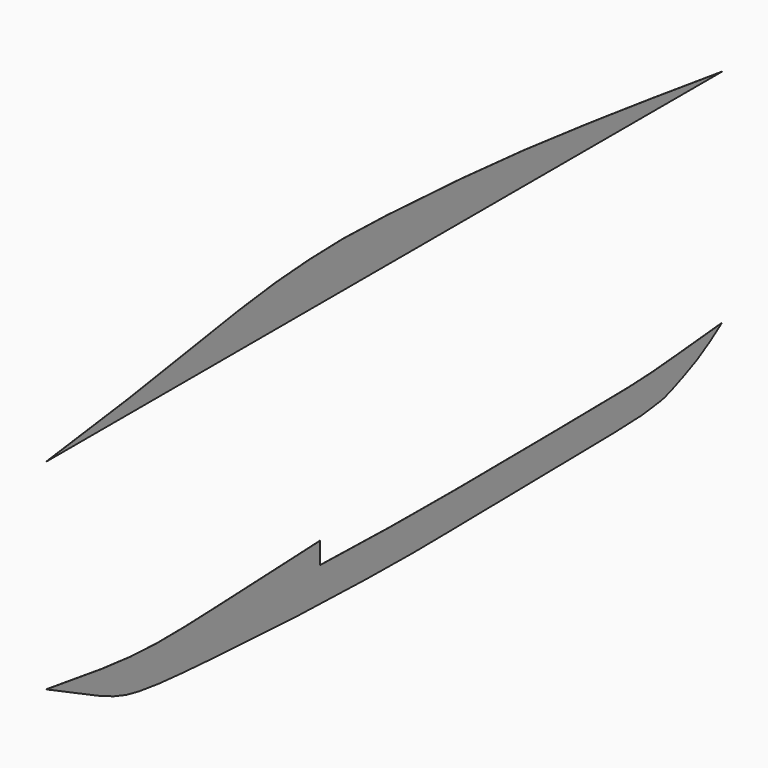
from build123d import *

# Parameters (mm, degrees)
F2_DEPTH = 0.5


with BuildPart() as f2:
    # F1 (on offset) → F2 (new body, symmetric)
    with BuildSketch(Plane.YZ.offset(150)):
        with BuildLine():
            add(Edge.make_bspline(
                [(-2618.2102647118, -576.3037851779), (-2539.0333905021, -590.5693602499), (-2375.154011412, -620.0960826442), (-2096.7040136344, -670.0811240284), (-1773.0350855243, -710.4396632339), (-1504.9471650603, -727.0489500896), (-1286.513021344, -736.293041033), (-1274.7112617183, -736.7843373728)],
                knots=[0, 0, 0, 0, 0.0701169764, 0.1451273073, 0.2240791994, 0.3224669769, 0.3279987799, 0.3279987799, 0.3279987799, 0.3279987799], degree=3))
            Line((-1274.7112617184, -736.7843373728), (-1274.7112617184, -662.7631248578))
            add(Edge.make_bspline(
                [(-2618.2102647118, -576.3037851779), (-2374.7002828416, -614.2741342573), (-1917.2879605014, -685.5956944009), (-1551.0225985173, -673.7788376752), (-1310.41197081, -664.2083344144), (-1274.7112617184, -662.7631248578)],
                knots=[0, 0, 0, 0, 0.3315668647, 0.6228194025, 0.6719076149, 0.6719076149, 0.6719076149, 0.6719076149], degree=3))
        make_face()
        with BuildLine():
            add(Edge.make_bspline(
                [(-669.7112617185, -757.6052229188), (-602.0714093195, -759.6035889936), (-534.9526120868, -761.5040851665), (-469.8083181867, -763.2811623211)],
                knots=[0.4110522857, 0.4110522857, 0.4110522857, 0.4110522857, 0.4376310669, 0.4376310669, 0.4376310669, 0.4376310669], degree=3))
            Line((-469.8083181867, -763.281162321), (-469.8083181867, -628.0062858085))
            add(Edge.make_bspline(
                [(-669.7112617184, -636.8509449902), (-603.4673012103, -633.9274703809), (-536.6378166673, -630.9664971881), (-469.8083181867, -628.0062858085)],
                knots=[0.9225616639, 0.9225616639, 0.9225616639, 0.9225616639, 1, 1, 1, 1], degree=3))
            Line((-669.7112617184, -636.8509449902), (-669.7112617184, -757.6052229188))
        make_face()
        with BuildLine():
            add(Edge.make_bspline(
                [(1385.2887382816, -772.0995976401), (1632.162088344, -770.4906352796), (2047.3542309509, -768.0664997186), (2363.6699111594, -735.5275467967), (2579.3131378684, -715.9783442912), (2685.7897352882, -706.3256758723)],
                knots=[0.7310429993, 0.7310429993, 0.7310429993, 0.7310429993, 0.8392479794, 0.9206266367, 1, 1, 1, 1], degree=3))
            Line((1385.2887382816, -772.0995976401), (1385.2887382816, -924.43752621))
            Line((1385.2887382816, -924.43752621), (1606.0147852981, -919.6427484052))
            Line((1606.0147852981, -919.6427484052), (2063.3390255537, -909.2374018513))
            Line((2063.3390255537, -909.2374018513), (2385.2887382816, -879.2924956671))
            add(Edge.make_bspline(
                [(2385.2887382816, -879.2924956671), (2421.9290941285, -864.0432321069), (2534.0158071069, -814.3437931642), (2626.4106873664, -748.585983947), (2685.7897352882, -706.3256758723)],
                knots=[0.9203688542, 0.9203688542, 0.9203688542, 0.9203688542, 0.9488237702, 1, 1, 1, 1], degree=3))
        make_face()
        with BuildLine():
            Line((-1274.7112617184, -938.6454548407), (-1274.7112617184, -880.009493909))
            Line((-1274.7112617184, -880.009493909), (-1437.7513832902, -867.8795826768))
            Line((-1437.7513832902, -867.8795826768), (-1847.0462813249, -827.756598687))
            Line((-1847.0462813249, -827.756598687), (-2213.4968429981, -775.8774304832))
            add(Edge.make_bspline(
                [(-2213.4968429981, -775.8774304832), (-2178.1828741936, -792.5093882206), (-2116.1479783538, -820.1222288889), (-2018.4522131173, -857.0758458758), (-1898.8982328104, -883.9924256255), (-1734.0059514115, -905.8160057723), (-1550.3892671083, -920.6455663407), (-1351.9697174508, -933.7750206565), (-1274.7112617184, -938.6454548407)],
                knots=[0.106161225, 0.106161225, 0.106161225, 0.106161225, 0.1392434105, 0.174518325, 0.212295922, 0.2554875511, 0.3106744158, 0.3428881723, 0.3428881723, 0.3428881723, 0.3428881723], degree=3))
        make_face()
        with BuildLine():
            Line((1606.0147852981, -919.6427484052), (1385.2887382816, -924.43752621))
            Line((1385.2887382816, -924.43752621), (1385.2887382816, -976.6713911922))
            add(Edge.make_bspline(
                [(1385.2887382816, -976.6713911922), (1557.8524568737, -974.3902477766), (1874.8816200544, -970.1108659298), (2023.0516705268, -965.2174725682), (2132.8649293631, -954.1700096304), (2234.8657137087, -940.0665287928), (2295.6269129834, -915.1532376729), (2358.8355305535, -890.3019940013), (2385.2887382816, -879.2924956671)],
                knots=[0.6984519453, 0.6984519453, 0.6984519453, 0.6984519453, 0.7496741382, 0.7992883896, 0.8337188547, 0.8677428923, 0.8998252818, 0.9203688542, 0.9203688542, 0.9203688542, 0.9203688542], degree=3))
            Line((2385.2887382816, -879.2924956671), (2063.3390255537, -909.2374018513))
            Line((2063.3390255537, -909.2374018513), (1606.0147852981, -919.6427484052))
        make_face()
        with BuildLine():
            Line((-1274.7112617184, -880.009493909), (-1274.7112617184, -736.7843373728))
            add(Edge.make_bspline(
                [(-2618.2102647118, -576.3037851779), (-2539.0333905021, -590.5693602499), (-2375.154011412, -620.0960826442), (-2096.7040136344, -670.0811240284), (-1773.0350855243, -710.4396632339), (-1504.9471650603, -727.0489500896), (-1286.513021344, -736.293041033), (-1274.7112617183, -736.7843373728)],
                knots=[0, 0, 0, 0, 0.0701169764, 0.1451273073, 0.2240791994, 0.3224669769, 0.3279987799, 0.3279987799, 0.3279987799, 0.3279987799], degree=3))
            add(Edge.make_bspline(
                [(-2618.2102647118, -576.3037851779), (-2555.0916094041, -607.4863736106), (-2428.5667711769, -669.9935980991), (-2279.6156710071, -744.5400580991), (-2218.8240651697, -773.368447862), (-2213.4968429981, -775.8774304832)],
                knots=[0, 0, 0, 0, 0.050470382, 0.1011706743, 0.106161225, 0.106161225, 0.106161225, 0.106161225], degree=3))
            Line((-2213.4968429981, -775.8774304832), (-1847.0462813249, -827.756598687))
            Line((-1847.0462813249, -827.756598687), (-1437.7513832902, -867.8795826768))
            Line((-1437.7513832902, -867.8795826768), (-1274.7112617184, -880.009493909))
        make_face()
        with BuildLine():
            add(Edge.make_bspline(
                [(-1274.7112617183, -736.7843373728), (-1101.7111468682, -743.9861721753), (-891.285948131, -751.0201450743), (-684.7112617185, -757.1607021541)],
                knots=[0.3279987799, 0.3279987799, 0.3279987799, 0.3279987799, 0.4090885986, 0.4090885986, 0.4090885986, 0.4090885986], degree=3))
            Line((-684.7112617184, -757.1607021541), (-684.7112617184, -637.5127192401))
            add(Edge.make_bspline(
                [(-1274.7112617184, -662.7631248578), (-1096.670228969, -655.5558001701), (-893.8375195181, -646.7360757099), (-684.7112617184, -637.5127192401)],
                knots=[0.6719076149, 0.6719076149, 0.6719076149, 0.6719076149, 0.9167127252, 0.9167127252, 0.9167127252, 0.9167127252], degree=3))
            Line((-1274.7112617184, -662.7631248578), (-1274.7112617184, -736.7843373728))
        make_face()
        with BuildLine():
            add(Edge.make_bspline(
                [(-684.7112617185, -757.1607021541), (-679.7088083003, -757.3094030975), (-674.7086129159, -757.4575801203), (-669.7112617185, -757.6052229188)],
                knots=[0.4090885986, 0.4090885986, 0.4090885986, 0.4090885986, 0.4110522857, 0.4110522857, 0.4110522857, 0.4110522857], degree=3))
            Line((-669.7112617184, -757.6052229188), (-669.7112617184, -636.8509449902))
            add(Edge.make_bspline(
                [(-684.7112617184, -637.5127192401), (-679.7147702212, -637.2923527368), (-674.714686125, -637.0717558249), (-669.7112617184, -636.8509449902)],
                knots=[0.9167127252, 0.9167127252, 0.9167127252, 0.9167127252, 0.9225616639, 0.9225616639, 0.9225616639, 0.9225616639], degree=3))
            Line((-684.7112617184, -637.5127192401), (-684.7112617184, -757.1607021541))
        make_face()
        with BuildLine():
            add(Edge.make_bspline(
                [(-44.7112617184, -773.728421124), (113.2613740111, -776.9774103479), (302.2012598236, -779.359672084), (525.4456674629, -778.7711649103), (585.2887382816, -778.479479658)],
                knots=[0.5022157887, 0.5022157887, 0.5022157887, 0.5022157887, 0.5835751742, 0.6121720276, 0.6121720276, 0.6121720276, 0.6121720276], degree=3))
            Line((-44.7112617184, -773.728421124), (-44.7112617184, -941.6859116845))
            Line((-44.7112617184, -941.6859116845), (-39.9646897602, -941.8767564059))
            Line((-39.9646897602, -941.8767564059), (582.4794109707, -941.8767564059))
            Line((582.4794109707, -941.8767564059), (585.2887382816, -941.8157300775))
            Line((585.2887382816, -941.8157300775), (585.2887382816, -778.479479658))
        make_face()
        with BuildLine():
            add(Edge.make_bspline(
                [(585.2887382816, -778.479479658), (601.8230858905, -778.3988884503), (618.4935316161, -778.30771442), (635.2887382816, -778.2072718216)],
                knots=[0.6121720276, 0.6121720276, 0.6121720276, 0.6121720276, 0.6200731983, 0.6200731983, 0.6200731983, 0.6200731983], degree=3))
            Line((585.2887382816, -778.479479658), (585.2887382816, -941.8157300775))
            Line((585.2887382816, -941.8157300775), (635.2887382816, -940.7295923358))
            Line((635.2887382816, -940.7295923358), (635.2887382816, -778.2072718216))
        make_face()
        with BuildLine():
            add(Edge.make_bspline(
                [(635.2887382816, -778.2072718216), (730.3128033462, -777.6389868226), (829.3305657081, -776.77400756), (930.2887382816, -775.8503599419)],
                knots=[0.6200731983, 0.6200731983, 0.6200731983, 0.6200731983, 0.6647765097, 0.6647765097, 0.6647765097, 0.6647765097], degree=3))
            Line((635.2887382816, -778.2072718216), (635.2887382816, -940.7295923358))
            Line((635.2887382816, -940.7295923358), (930.2887382816, -934.3213796596))
            Line((930.2887382816, -934.3213796596), (930.2887382816, -775.8503599419))
        make_face()
        with BuildLine():
            add(Edge.make_bspline(
                [(930.2887382816, -775.8503599419), (1044.3424127047, -774.8069040032), (1197.2484628803, -773.339475374), (1349.3212311725, -772.3340108123), (1385.2887382816, -772.0995976401)],
                knots=[0.6647765097, 0.6647765097, 0.6647765097, 0.6647765097, 0.715278384, 0.7310429993, 0.7310429993, 0.7310429993, 0.7310429993], degree=3))
            Line((930.2887382816, -775.8503599419), (930.2887382816, -934.3213796596))
            Line((930.2887382816, -934.3213796596), (1385.2887382816, -924.43752621))
            Line((1385.2887382816, -924.43752621), (1385.2887382816, -772.0995976401))
        make_face()
        with BuildLine():
            Line((-684.7112617184, -970.8046369417), (-684.7112617184, -915.9535257059))
            Line((-684.7112617184, -915.9535257059), (-917.2539962014, -906.603714143))
            Line((-917.2539962014, -906.603714143), (-1274.7112617184, -880.009493909))
            Line((-1274.7112617184, -880.009493909), (-1274.7112617184, -938.6454548407))
            add(Edge.make_bspline(
                [(-1274.7112617184, -938.6454548407), (-1151.7496419929, -946.3970526479), (-933.6634273917, -959.1977316743), (-753.7427084976, -967.8564883836), (-684.7112617184, -970.8046369416)],
                knots=[0.3428881723, 0.3428881723, 0.3428881723, 0.3428881723, 0.394158362, 0.4266982769, 0.4266982769, 0.4266982769, 0.4266982769], degree=3))
        make_face()
        with BuildLine():
            Line((-669.7112617184, -971.4392812777), (-669.7112617184, -916.5566285022))
            Line((-669.7112617184, -916.5566285022), (-684.7112617184, -915.9535257059))
            Line((-684.7112617184, -915.9535257059), (-684.7112617184, -970.8046369417))
            add(Edge.make_bspline(
                [(-684.7112617184, -970.8046369416), (-679.7075573577, -971.0183317791), (-674.7081830744, -971.2298531452), (-669.7112617184, -971.4392812777)],
                knots=[0.4266982769, 0.4266982769, 0.4266982769, 0.4266982769, 0.4290569137, 0.4290569137, 0.4290569137, 0.4290569137], degree=3))
        make_face()
        with BuildLine():
            Line((-44.7112617184, -989.2742923513), (-44.7112617184, -941.6859116845))
            Line((-44.7112617184, -941.6859116845), (-669.7112617184, -916.5566285022))
            Line((-669.7112617184, -916.5566285022), (-669.7112617184, -971.4392812777))
            add(Edge.make_bspline(
                [(-669.7112617184, -971.4392812777), (-579.109241688, -975.2365417312), (-393.0716362982, -981.6779466746), (-162.4671889977, -987.2184957479), (-44.7112617184, -989.2742923513)],
                knots=[0.4290569137, 0.4290569137, 0.4290569137, 0.4290569137, 0.4718226984, 0.5176586181, 0.5176586181, 0.5176586181, 0.5176586181], degree=3))
        make_face()
        with BuildLine():
            Line((-39.9646897602, -941.8767564059), (-44.7112617184, -941.6859116845))
            Line((-44.7112617184, -941.6859116845), (-44.7112617184, -989.2742923513))
            add(Edge.make_bspline(
                [(-44.7112617184, -989.2742923513), (63.510492238, -991.1636402537), (296.9511627935, -993.7941239946), (474.3464232517, -991.0545907571), (585.2887382816, -988.9950215944)],
                knots=[0.5176586181, 0.5176586181, 0.5176586181, 0.5176586181, 0.5597834074, 0.6096308473, 0.6096308473, 0.6096308473, 0.6096308473], degree=3))
            Line((585.2887382816, -988.9950215944), (585.2887382816, -941.8157300775))
            Line((585.2887382816, -941.8157300775), (582.4794109707, -941.8767564059))
            Line((582.4794109707, -941.8767564059), (-39.9646897602, -941.8767564059))
        make_face()
        with BuildLine():
            Line((635.2887382816, -940.7295923358), (585.2887382816, -941.8157300775))
            Line((585.2887382816, -941.8157300775), (585.2887382816, -988.9950215944))
            add(Edge.make_bspline(
                [(585.2887382816, -988.9950215944), (601.602327556, -988.6921708256), (618.235863852, -988.3768917606), (635.2887382816, -988.0523722636)],
                knots=[0.6096308473, 0.6096308473, 0.6096308473, 0.6096308473, 0.6169606985, 0.6169606985, 0.6169606985, 0.6169606985], degree=3))
            Line((635.2887382816, -988.0523722636), (635.2887382816, -940.7295923358))
        make_face()
        with BuildLine():
            Line((930.2887382816, -934.3213796596), (635.2887382816, -940.7295923358))
            Line((635.2887382816, -940.7295923358), (635.2887382816, -988.0523722636))
            add(Edge.make_bspline(
                [(635.2887382816, -988.0523722636), (689.5565391928, -987.0196455216), (780.6034531895, -985.2671450814), (889.6869238697, -983.5368188605), (930.2887382816, -982.9222818723)],
                knots=[0.6169606985, 0.6169606985, 0.6169606985, 0.6169606985, 0.6402866725, 0.6532552442, 0.6532552442, 0.6532552442, 0.6532552442], degree=3))
            Line((930.2887382816, -982.9222818723), (930.2887382816, -934.3213796596))
        make_face()
        with BuildLine():
            Line((1385.2887382816, -924.43752621), (930.2887382816, -934.3213796596))
            Line((930.2887382816, -934.3213796596), (930.2887382816, -982.9222818723))
            add(Edge.make_bspline(
                [(930.2887382816, -982.9222818723), (1071.7899085728, -980.7805622405), (1233.0244487495, -978.6841936767), (1385.2887382816, -976.6713911922)],
                knots=[0.6532552442, 0.6532552442, 0.6532552442, 0.6532552442, 0.6984519453, 0.6984519453, 0.6984519453, 0.6984519453], degree=3))
            Line((1385.2887382816, -976.6713911922), (1385.2887382816, -924.43752621))
        make_face()
        with BuildLine():
            add(Edge.make_bspline(
                [(-469.8083181867, -763.2811623211), (-396.2635821108, -765.2873959064), (-243.3837676729, -769.267005864), (-111.8512497035, -772.3475674309), (-44.7112617184, -773.728421124)],
                knots=[0.4376310669, 0.4376310669, 0.4376310669, 0.4376310669, 0.4676372167, 0.5022157887, 0.5022157887, 0.5022157887, 0.5022157887], degree=3))
            add(Edge.make_bspline(
                [(-669.7112617185, -757.6052229188), (-602.0714093195, -759.6035889936), (-534.9526120868, -761.5040851665), (-469.8083181867, -763.2811623211)],
                knots=[0.4110522857, 0.4110522857, 0.4110522857, 0.4110522857, 0.4376310669, 0.4376310669, 0.4376310669, 0.4376310669], degree=3))
            Line((-669.7112617184, -757.6052229188), (-669.7112617184, -916.5566285022))
            Line((-669.7112617184, -916.5566285022), (-44.7112617184, -941.6859116845))
            Line((-44.7112617184, -941.6859116845), (-44.7112617184, -773.728421124))
        make_face()
        with BuildLine():
            Line((-684.7112617184, -915.9535257059), (-684.7112617184, -757.1607021541))
            add(Edge.make_bspline(
                [(-1274.7112617183, -736.7843373728), (-1101.7111468682, -743.9861721753), (-891.285948131, -751.0201450743), (-684.7112617185, -757.1607021541)],
                knots=[0.3279987799, 0.3279987799, 0.3279987799, 0.3279987799, 0.4090885986, 0.4090885986, 0.4090885986, 0.4090885986], degree=3))
            Line((-1274.7112617184, -736.7843373728), (-1274.7112617184, -880.009493909))
            Line((-1274.7112617184, -880.009493909), (-917.2539962014, -906.603714143))
            Line((-917.2539962014, -906.603714143), (-684.7112617184, -915.9535257059))
        make_face()
        with BuildLine():
            Line((-669.7112617184, -916.5566285022), (-669.7112617184, -757.6052229188))
            add(Edge.make_bspline(
                [(-684.7112617185, -757.1607021541), (-679.7088083003, -757.3094030975), (-674.7086129159, -757.4575801203), (-669.7112617185, -757.6052229188)],
                knots=[0.4090885986, 0.4090885986, 0.4090885986, 0.4090885986, 0.4110522857, 0.4110522857, 0.4110522857, 0.4110522857], degree=3))
            Line((-684.7112617184, -757.1607021541), (-684.7112617184, -915.9535257059))
            Line((-684.7112617184, -915.9535257059), (-669.7112617184, -916.5566285022))
        make_face()
    extrude(amount=F2_DEPTH, both=True)


with BuildPart() as f2b:
    # F1 (on offset) → F2, piece 2 (new body, symmetric)
    with BuildSketch(Plane.YZ.offset(150)):
        with BuildLine():
            add(Edge.make_bspline(
                [(-2618.2102647118, 682.377471705), (-2425.4264858269, 707.5988526014), (-2025.1400694407, 754.786187921), (-1246.719628274, 884.3212729298), (-933.9907816463, 930.271565146), (-658.0908901248, 956.2238691824), (-429.7030529129, 965.9828540847), (-170.6925237797, 972.981069615), (865.2458955876, 916.0169063496), (1722.6619630852, 814.0140684372), (2353.5623468111, 730.2220049375), (2685.7897352882, 682.377471705)],
                knots=[0, 0, 0, 0, 0.1177012003, 0.2503301042, 0.3354847944, 0.4128970602, 0.482513794, 0.5579741733, 0.7087126641, 0.8527261185, 1, 1, 1, 1], degree=3))
            Line((-2618.2102647118, 682.377471705), (2685.7897352882, 682.377471705))
        make_face()
        with BuildLine():
            add(Edge.make_bspline(
                [(-2618.2102647118, 682.377471705), (-2425.4264858269, 707.5988526014), (-2025.1400694407, 754.786187921), (-1246.719628274, 884.3212729298), (-933.9907816463, 930.271565146), (-658.0908901248, 956.2238691824), (-429.7030529129, 965.9828540847), (-170.6925237797, 972.981069615), (865.2458955876, 916.0169063496), (1722.6619630852, 814.0140684372), (2353.5623468111, 730.2220049375), (2685.7897352882, 682.377471705)],
                knots=[0, 0, 0, 0, 0.1177012003, 0.2503301042, 0.3354847944, 0.4128970602, 0.482513794, 0.5579741733, 0.7087126641, 0.8527261185, 1, 1, 1, 1], degree=3))
            Line((-2618.2102647118, 682.377471705), (2685.7897352882, 682.377471705))
        make_face()
    extrude(amount=F2_DEPTH, both=True)


solid = Compound([f2.part, f2b.part])
